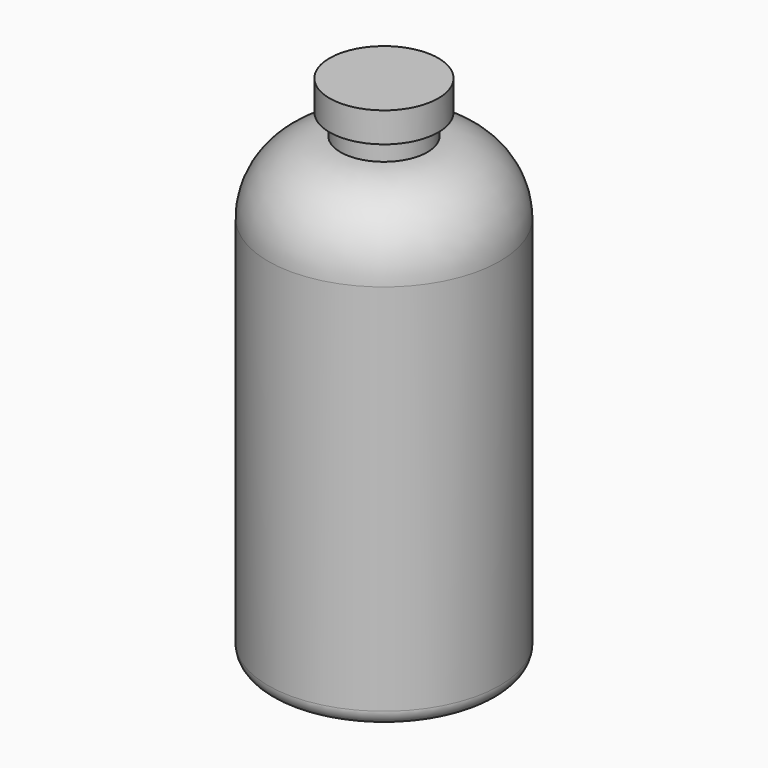
from build123d import *

# Parameters (mm, degrees)
F2_R = 5.08


with BuildPart() as f1:
    # F0 (on Front) → F1 (revolve)
    with BuildSketch(Plane.XZ):
        with BuildLine():
            Line((-38.1, 0), (0, 0))
            Line((0, 0), (0, 168.402))
            Line((0, 168.402), (-17.877694, 168.402))
            Line((-17.877694, 168.402), (-17.877694, 158.566087))
            Line((-17.877694, 158.566087), (-14.2875, 158.566087))
            Line((-14.2875, 158.566087), (-14.2875, 151.651561))
            ThreePointArc((-14.2875, 151.651561), (-31.12548, 144.677041), (-38.1, 127.839061))
            Line((-38.1, 127.839061), (-38.1, 0))
        make_face()
    revolve(axis=Axis((0, 0, 84.201), (0, 0, 1)))

    # F2
    f2_edges = [f1.edges().sort_by_distance(p)[0] for p in [
        (38.1, 0, 0),
    ]]
    fillet(f2_edges, radius=F2_R)


solid = f1.part
